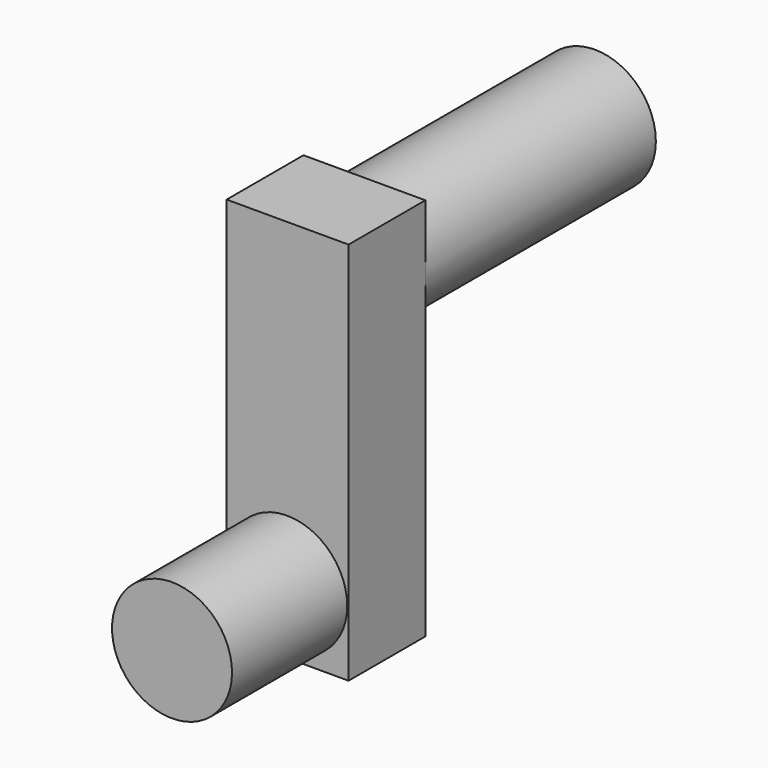
from build123d import *

# Parameters (mm, degrees)
F0_R     = 15.875
F1_DEPTH = 63.5
F2_W     = 32.258
F2_H     = 101.6
F3_DEPTH = 25.4
F4_R     = 16.129
F5_DEPTH = 76.2


with BuildPart() as f1:
    # F0 (on Front) → F1 (new body)
    with BuildSketch(Plane.XZ):
        Circle(F0_R)
    extrude(amount=F1_DEPTH)

    # F2 (on Front) → F3 (join)
    with BuildSketch(Plane.XZ):
        with Locations((0.108262, 33.494265)):
            Rectangle(F2_W, F2_H)
    extrude(amount=F3_DEPTH)

    # F4 (on Front) → F5 (join)
    with BuildSketch(Plane.XZ):
        with Locations((0.137554, 67.053316)):
            Circle(F4_R)
    extrude(amount=-F5_DEPTH)


solid = f1.part
